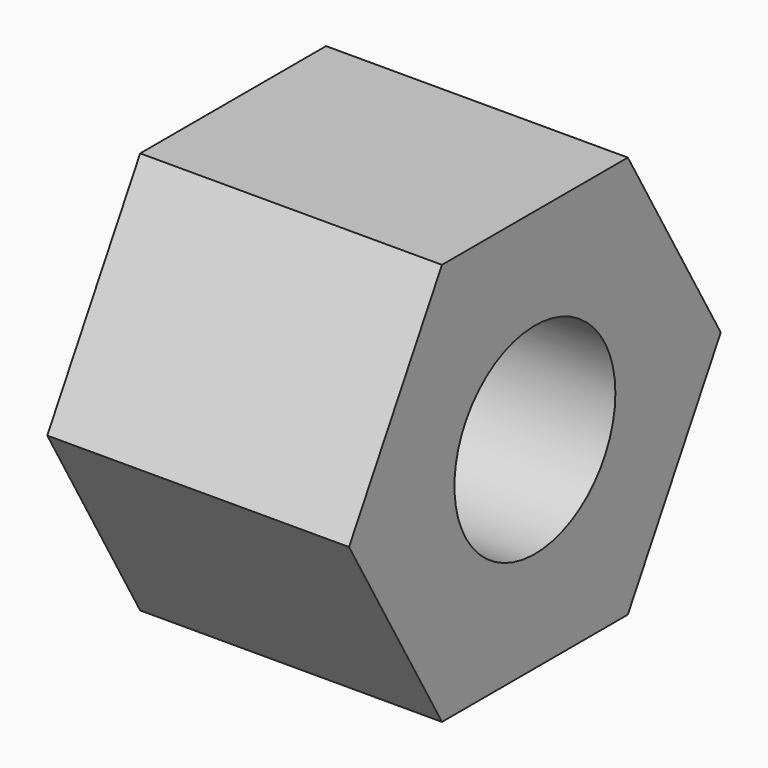
from build123d import *

# Parameters (mm, degrees)
F0_R     = 5
F1_DEPTH = 15


with BuildPart() as f1:
    # F0 (on Right) → F1 (new body)
    with BuildSketch(Plane.YZ):
        Polygon((5.773503, 10), (-5.773503, 10), (-11.547005, 0), (-5.773503, -10), (5.773503, -10), (11.547005, 0), align=None)
        Circle(F0_R, mode=Mode.SUBTRACT)
    extrude(amount=F1_DEPTH)


solid = f1.part
